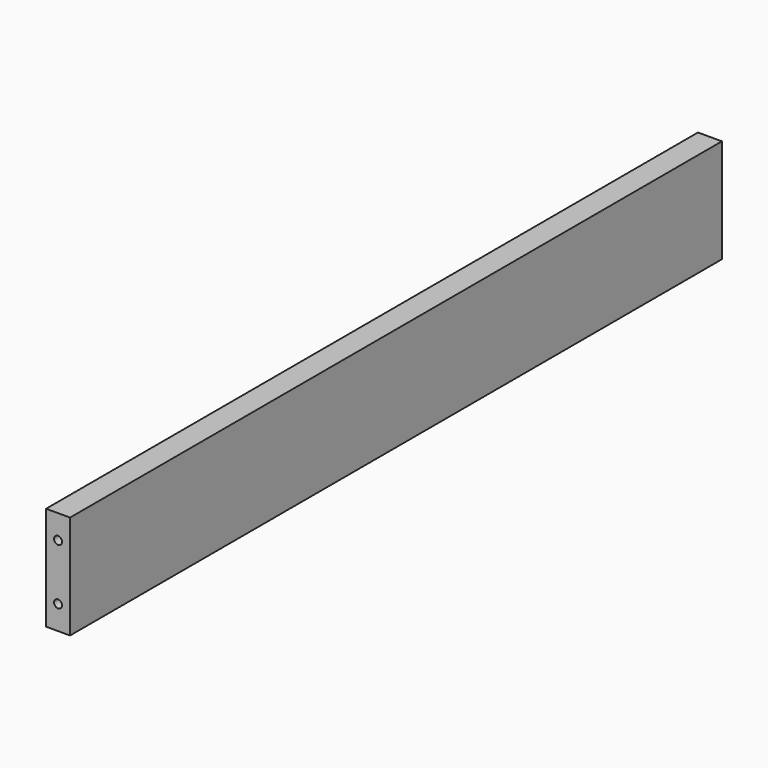
from build123d import *

# Parameters (mm, degrees)
F0_W     = 9.525
F0_H     = 41.275
F0_R     = 1.5875
F1_DEPTH = 161.925


with BuildPart() as f1:
    # F0 (on Front) → F1 (new body, symmetric)
    with BuildSketch(Plane.XZ):
        Rectangle(F0_W, F0_H)
        with Locations((0, -11.1125)):
            Circle(F0_R, mode=Mode.SUBTRACT)
        with Locations((0, 11.1125)):
            Circle(F0_R, mode=Mode.SUBTRACT)
    extrude(amount=F1_DEPTH, both=True)


solid = f1.part
